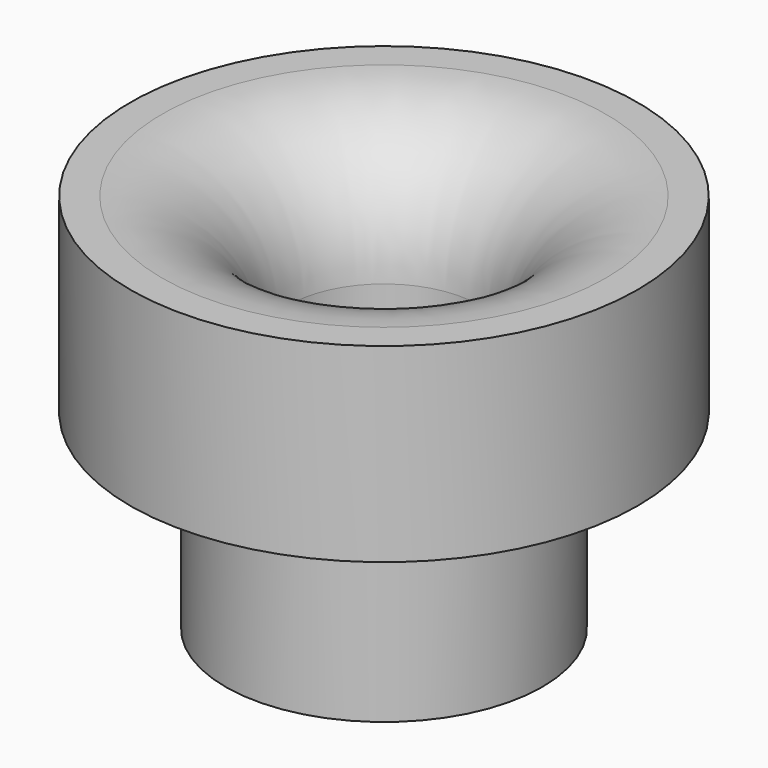
from build123d import *

# Parameters (mm, degrees)
F0_R     = 4
F0_R_2   = 2.5
F0_R_3   = 1.5
F1_DEPTH = 3
F2_DEPTH = 3
F3_R     = 0.6
F4_R     = 2


with BuildPart() as f1:
    # F0 (on Top) → F1 (new body)
    with BuildSketch(Plane.XY):
        Circle(F0_R)
        Circle(F0_R_2, mode=Mode.SUBTRACT)
        Circle(F0_R_2)
        Circle(F0_R_3, mode=Mode.SUBTRACT)
    extrude(amount=F1_DEPTH)

    # F0 (on Top) → F2 (join)
    with BuildSketch(Plane.XY):
        Circle(F0_R_2)
        Circle(F0_R_3, mode=Mode.SUBTRACT)
    extrude(amount=-F2_DEPTH)

    # F3
    f3_edges = [f1.edges().sort_by_distance(p)[0] for p in [
        (-1.5, 0, -3),
    ]]
    fillet(f3_edges, radius=F3_R)

    # F4
    f4_edges = [f1.edges().sort_by_distance(p)[0] for p in [
        (-1.5, 0, 3),
    ]]
    fillet(f4_edges, radius=F4_R)


solid = f1.part
